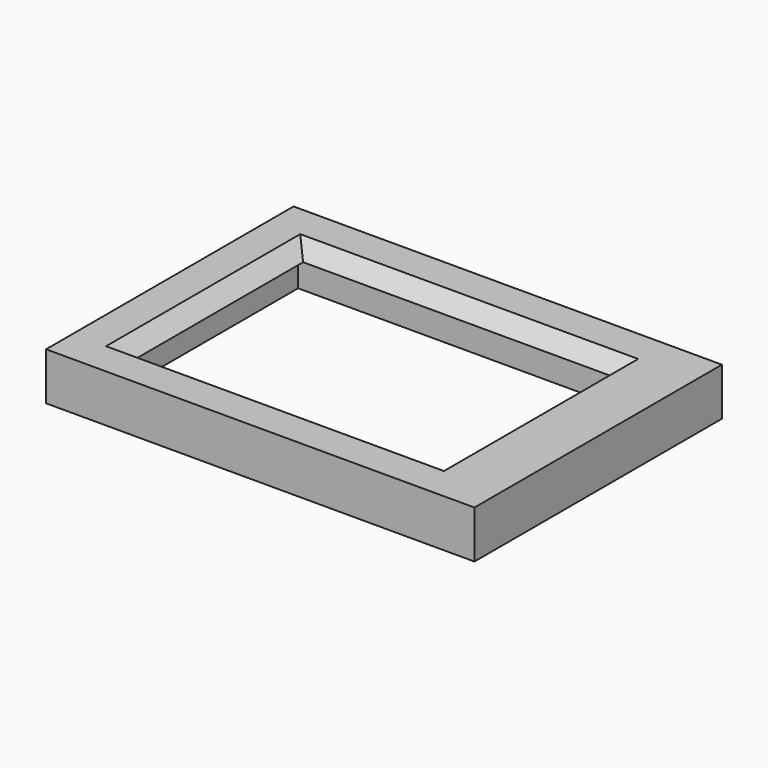
from build123d import *

# Parameters (mm, degrees)
SKETCH_W     = 90
SKETCH_H     = 65
PAD_DEPTH    = 10
SKETCH004_W  = 71
SKETCH004_H  = 51
POCKET_DEPTH = 7
SKETCH003_W  = 71
SKETCH003_H  = 51
SKETCH001_W  = 65
SKETCH001_H  = 45


with BuildPart() as part:
    # Sketch → Pad (new body)
    with BuildSketch(Plane.XY.offset(3)):
        with Locations((45, 32.5)):
            Rectangle(SKETCH_W, SKETCH_H)
    extrude(amount=-PAD_DEPTH)

    # Sketch004 → Pocket (cut)
    with BuildSketch(Plane.XY):
        with Locations((42.25, 32.25)):
            Rectangle(SKETCH004_W, SKETCH004_H)
    extrude(amount=-POCKET_DEPTH, mode=Mode.SUBTRACT)

    # Sketch003 → SubtractiveLoft section 0
    with BuildSketch(Plane.XY.offset(3)):
        with Locations((42.5, 32.5)):
            Rectangle(SKETCH003_W, SKETCH003_H)
    # Sketch001 → SubtractiveLoft section 1
    with BuildSketch(Plane.XY):
        with Locations((42.5, 32.5)):
            Rectangle(SKETCH001_W, SKETCH001_H)
    loft(mode=Mode.SUBTRACT)


solid = part.part
